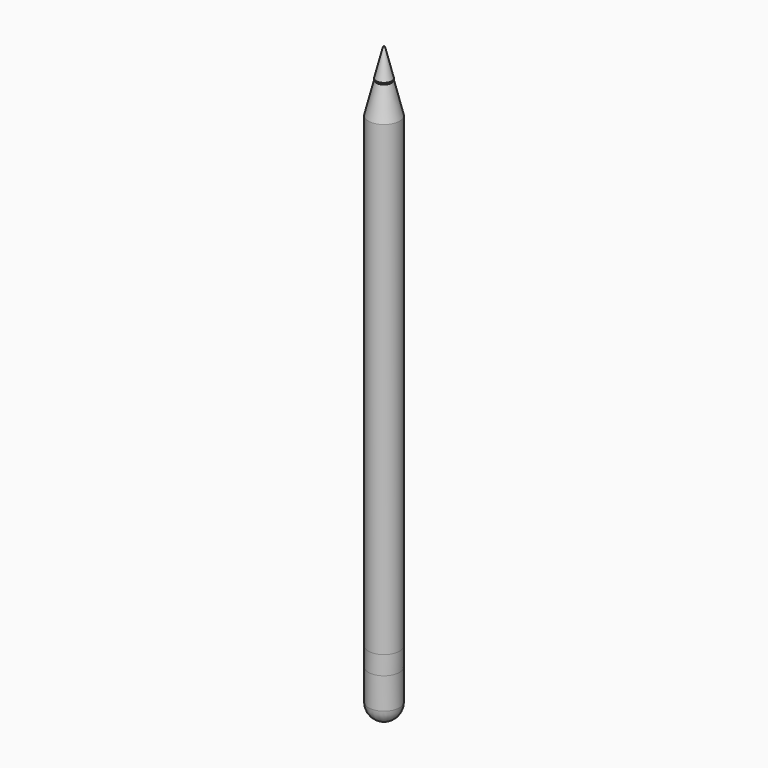
from build123d import *

# Parameters (mm, degrees)
F0_R           = 5
F1_DEPTH       = 75
F4_W           = 1.5
F4_H           = 0.5
F6_W           = 5
F6_H           = 6
F11_R          = 2.25
F11_R_2        = 2
F12_DEPTH      = 5
F12_DEPTH_BACK = 25


with BuildPart() as f1:
    # F0 (on Top) → F1 (new body, symmetric)
    with BuildSketch(Plane.XY):
        Circle(F0_R)
    extrude(amount=F1_DEPTH, both=True)

    # F2 (on Front) → F3 (revolve)
    with BuildSketch(Plane.XZ):
        Polygon((-2.5, 85), (-5, 75), (0, 75), (0, 85), align=None)
    revolve(axis=Axis((0, 0, 80), (0, 0, -1)))


with BuildPart() as f5:
    # F4 (on Front) → F5 (revolve)
    with BuildSketch(Plane.XZ):
        with Locations((-0.75, 85.25)):
            Rectangle(F4_W, F4_H)
        with BuildLine():
            Line((-0.291043, 94.335829), (-2.5, 85.5))
            Line((-2.5, 85.5), (-1.5, 85.5))
            Line((-1.5, 85.5), (0, 85.5))
            Line((0, 85.5), (0, 94.563068))
            ThreePointArc((0, 94.563068), (-0.184624, 94.49953), (-0.291043, 94.335829))
        make_face()
    revolve(axis=Axis((0, 0, 90.5), (0, 0, -1)))


with BuildPart() as f7:
    # F6 (on Front) → F7 (revolve)
    with BuildSketch(Plane.XZ):
        with Locations((2.5, -78)):
            Rectangle(F6_W, F6_H)
    revolve(axis=Axis((0, 0, -77.982798), (0, 0, 1)))


with BuildPart() as f9:
    # F8 (on Front) → F9 (revolve)
    with BuildSketch(Plane.XZ):
        with BuildLine():
            ThreePointArc((-5, -91), (-3.535534, -94.535534), (0, -96))
            Line((0, -96), (0, -81))
            Line((0, -81), (-5, -81))
            Line((-5, -81), (-5, -91))
        make_face()
    revolve(axis=Axis((0, 0, -88.5), (0, 0, 1)))

    # F11 (on offset) → F12 (cut, two sides)
    with BuildSketch(Plane.XY.offset(-94.999999)) as f12_sk:
        Circle(F11_R)
        Circle(F11_R_2, mode=Mode.SUBTRACT)
    extrude(amount=F12_DEPTH, mode=Mode.SUBTRACT)
    extrude(f12_sk.sketch, amount=-F12_DEPTH_BACK, mode=Mode.SUBTRACT)


solid = Compound([f1.part, f5.part, f7.part, f9.part])
